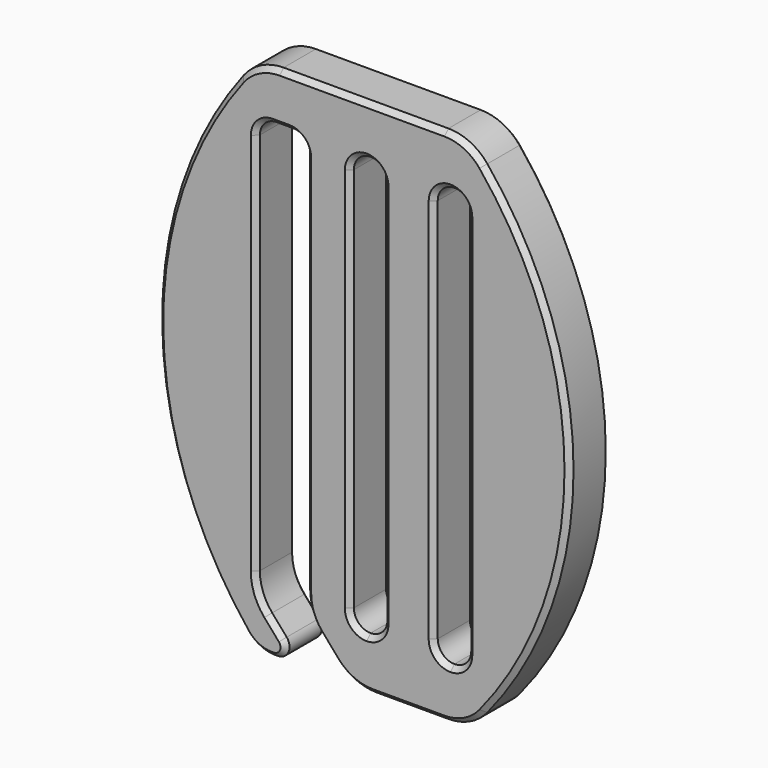
from build123d import *

# Parameters (mm, degrees)
F1_DEPTH = 3
F2_SIZE  = 0.3


with BuildPart() as f1:
    # F0 (on Front) → F1 (new body)
    with BuildSketch(Plane.XZ):
        with BuildLine():
            ThreePointArc((8.6002542206, -4.5276246292), (9.6205467371, -5.289994744), (10.8651777768, -5.5603622459))
            Line((10.8651777768, -5.5603622459), (15.1357887981, -5.5603622459))
            ThreePointArc((15.1357887981, -5.5603622459), (16.4208285671, -5.2712058032), (17.4581499839, -4.4594774406))
            ThreePointArc((17.4581499839, -4.4594774406), (22.5960159615, 9.9396377541), (17.4581499839, 24.3387529488))
            ThreePointArc((17.4581499839, 24.3387529488), (16.4208285671, 25.1504813114), (15.1357887981, 25.4396377541))
            Line((15.1357887981, 25.4396377541), (9.4972672168, 25.4396377541))
            Line((9.4972672168, 25.4396377541), (5.3097819548, 25.4396377541))
            ThreePointArc((5.3097819548, 25.4396377541), (3.9825453513, 25.1300732205), (2.9292190014, 24.2652664198))
            ThreePointArc((2.9292190014, 24.2652664198), (-1.9299052308, 9.6676498918), (3.2652167583, -4.8137935487))
            ThreePointArc((3.2652167583, -4.8137935487), (3.9596707492, -5.3640893047), (4.8237128183, -5.5603622459))
            Line((4.8237128183, -5.5603622459), (4.9620791267, -5.5603622459))
            ThreePointArc((4.9620791267, -5.5603622459), (5.5989933763, -5.1507761552), (5.4905612898, -4.4013343565))
            Line((5.4905612898, -4.4013343565), (4.6266101762, -3.4066611267))
            ThreePointArc((4.6266101762, -3.4066611267), (4.0813050346, -2.4894533447), (3.8915337324, -1.4393987434))
            Line((3.8915337324, -1.4393987434), (3.8915337324, 21.4396377541))
            ThreePointArc((3.8915337324, 21.4396377541), (4.1844269512, 22.1467445353), (4.8915337324, 22.4396377541))
            Line((4.8915337324, 22.4396377541), (5.8915337324, 22.4396377541))
            ThreePointArc((5.8915337324, 22.4396377541), (6.5986405136, 22.1467445353), (6.8915337324, 21.4396377541))
            Line((6.8915337324, 21.4396377541), (6.8915337324, -1.4393987434))
            ThreePointArc((6.8915337324, -1.4393987434), (7.0813050346, -2.4894533447), (7.6266101762, -3.4066611267))
            Line((7.6266101762, -3.4066611267), (8.6002542206, -4.5276246292))
        make_face()
        with BuildLine():
            ThreePointArc((10.4972672168, 22.4396377541), (11.204373998, 22.1467445353), (11.4972672168, 21.4396377541))
            Line((11.4972672168, 21.4396377541), (11.4972672168, -1.5603622459))
            ThreePointArc((11.4972672168, -1.5603622459), (11.204373998, -2.2674690271), (10.4972672168, -2.5603622459))
            ThreePointArc((10.4972672168, -2.5603622459), (9.7901604356, -2.2674690271), (9.4972672168, -1.5603622459))
            Line((9.4972672168, -1.5603622459), (9.4972672168, 21.4396377541))
            ThreePointArc((9.4972672168, 21.4396377541), (9.7901604356, 22.1467445353), (10.4972672168, 22.4396377541))
        make_face(mode=Mode.SUBTRACT)
        with BuildLine():
            Line((14.4972672168, -1.5603622459), (14.4972672168, 21.4396377541))
            ThreePointArc((14.4972672168, 21.4396377541), (14.7901604356, 22.1467445353), (15.4972672168, 22.4396377541))
            ThreePointArc((15.4972672168, 22.4396377541), (16.204373998, 22.1467445353), (16.4972672168, 21.4396377541))
            Line((16.4972672168, 21.4396377541), (16.4972672168, -1.5603622459))
            ThreePointArc((16.4972672168, -1.5603622459), (16.204373998, -2.2674690271), (15.4972672168, -2.5603622459))
            ThreePointArc((15.4972672168, -2.5603622459), (14.7901604356, -2.2674690271), (14.4972672168, -1.5603622459))
        make_face(mode=Mode.SUBTRACT)
    extrude(amount=F1_DEPTH)

    # F2
    f2_edges = [f1.edges().sort_by_distance(p)[0] for p in [
        (4.081305, -3, -2.489453),
        (3.891534, -3, 10.00012),
        (4.184427, -3, 22.146745),
        (5.391534, -3, 22.439638),
        (6.598641, -3, 22.146745),
        (6.891534, -3, 10.00012),
        (7.081305, -3, -2.489453),
        (8.113432, -3, -3.967143),
        (9.620547, -3, -5.289995),
        (13.000483, -3, -5.560362),
        (16.420829, -3, -5.271206),
        (22.596016, -3, 9.939638),
        (16.420829, -3, 25.150481),
        (10.222785, -3, 25.439638),
        (3.982545, -3, 25.130073),
        (-1.929905, -3, 9.66765),
        (3.959671, -3, -5.364089),
        (4.892896, -3, -5.560362),
        (5.598993, -3, -5.150776),
        (5.058586, -3, -3.903998),
        (10.497267, -3, 22.439638),
        (11.497267, -3, 9.939638),
        (10.497267, -3, -2.560362),
        (9.497267, -3, 9.939638),
        (15.497267, -3, -2.560362),
        (14.497267, -3, 9.939638),
        (15.497267, -3, 22.439638),
        (16.497267, -3, 9.939638),
        (4.081305, 0, -2.489453),
        (3.891534, 0, 10.00012),
        (4.184427, 0, 22.146745),
        (5.391534, 0, 22.439638),
        (6.598641, 0, 22.146745),
        (6.891534, 0, 10.00012),
        (7.081305, 0, -2.489453),
        (8.113432, 0, -3.967143),
        (9.620547, 0, -5.289995),
        (13.000483, 0, -5.560362),
        (16.420829, 0, -5.271206),
        (22.596016, 0, 9.939638),
        (16.420829, 0, 25.150481),
        (10.222785, 0, 25.439638),
        (3.982545, 0, 25.130073),
        (-1.929905, 0, 9.66765),
        (3.959671, 0, -5.364089),
        (4.892896, 0, -5.560362),
        (5.598993, 0, -5.150776),
        (5.058586, 0, -3.903998),
        (10.497267, 0, 22.439638),
        (11.497267, 0, 9.939638),
        (10.497267, 0, -2.560362),
        (9.497267, 0, 9.939638),
        (15.497267, 0, -2.560362),
        (14.497267, 0, 9.939638),
        (15.497267, 0, 22.439638),
        (16.497267, 0, 9.939638),
    ]]
    chamfer(f2_edges, length=F2_SIZE)


solid = f1.part
